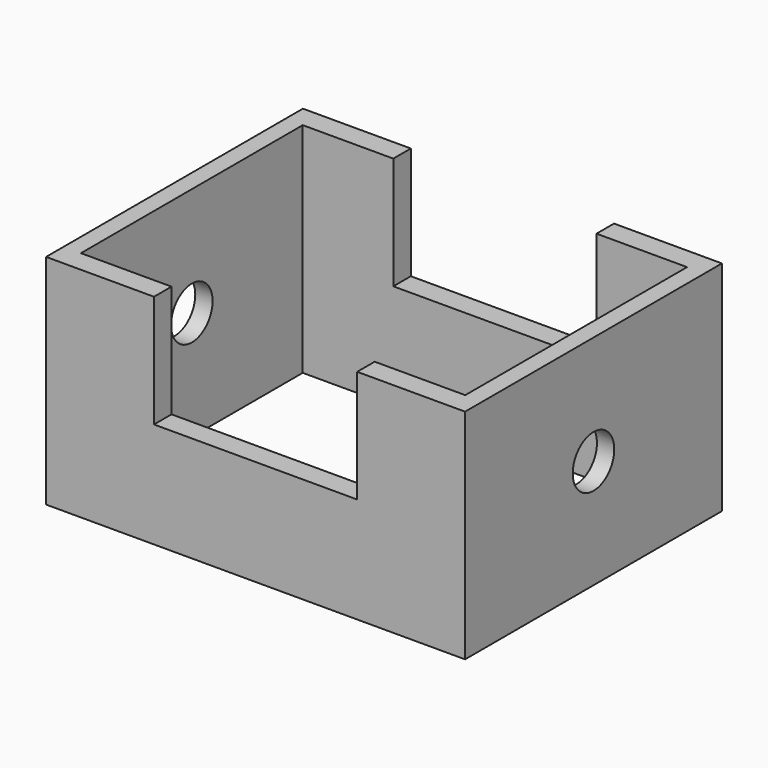
from build123d import *

# Parameters (mm, degrees)
F0_W     = 146.409408
F0_H     = 112.187884
F0_W_2   = 134.296582
F0_H_2   = 96.886568
F1_DEPTH = 76.2
F2_W     = 71.00363
F2_H     = 39.288416
F3_DEPTH = 112.188885
F4_R     = 9.066192
F5_DEPTH = 146.410407


with BuildPart() as f1:
    # F0 (on Top) → F1 (new body)
    with BuildSketch(Plane.XY):
        Rectangle(F0_W, F0_H)
        Rectangle(F0_W_2, F0_H_2, mode=Mode.SUBTRACT)
    extrude(amount=F1_DEPTH)

    # F2 (on face) → F3 (cut, through all)
    with BuildSketch(Plane.XZ.offset(56.093942)):
        with Locations((0, 95.844208)):
            Rectangle(F2_W, F2_H)
        with Locations((0, 56.555792)):
            Rectangle(F2_W, F2_H)
    extrude(amount=-F3_DEPTH, mode=Mode.SUBTRACT)

    # F4 (on face) → F5 (cut, through all)
    with BuildSketch(Plane.YZ.offset(73.204704)):
        with Locations((0, 38.1)):
            Circle(F4_R)
    extrude(amount=-F5_DEPTH, mode=Mode.SUBTRACT)


solid = f1.part
